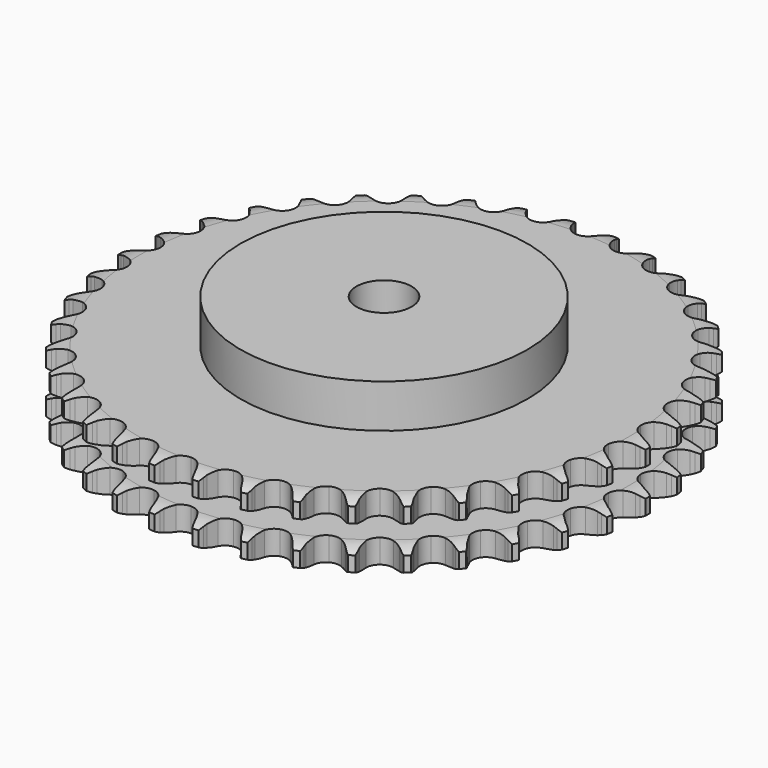
from build123d import *

# Parameters (mm, degrees)
PAD_DEPTH         = 30.3
SKETCH001_R       = 65
PAD001_DEPTH      = 50
SKETCH002_R       = 12.5
POCKET_DEPTH      = 0.001
POCKET_DEPTH_BACK = 50.001


with BuildPart() as part:
    # Sprocket → Pad (new body)
    with BuildSketch(Plane.XY):
        with BuildLine():
            ThreePointArc((-10.025052, 120.984389), (-8.623373, 119.280905), (-7.638429, 117.306964))
            Line((-7.638429, 117.306964), (-7.049797, 115.69432))
            ThreePointArc((-7.049797, 115.69432), (-6.119505, 113.622801), (-4.901153, 111.706488))
            ThreePointArc((-4.901153, 111.706488), (-2.743319, 109.891625), (0, 109.240337))
            ThreePointArc((0, 109.240337), (2.743319, 109.891625), (4.901153, 111.706488))
            ThreePointArc((4.901153, 111.706488), (6.119505, 113.622801), (7.049797, 115.69432))
            Line((7.049797, 115.69432), (7.638429, 117.306964))
            ThreePointArc((7.638429, 117.306964), (8.623373, 119.280905), (10.025052, 120.984389))
            ThreePointArc((10.025052, 120.984389), (11.127231, 119.07343), (11.773841, 116.964294))
            Line((11.773841, 116.964294), (12.089013, 115.276759))
            ThreePointArc((12.089013, 115.276759), (12.665656, 113.080371), (13.551976, 110.989661))
            ThreePointArc((13.551976, 110.989661), (15.381663, 108.844382), (17.980369, 107.750441))
            ThreePointArc((17.980369, 107.750441), (20.793471, 107.941311), (23.220591, 109.376254))
            Line((23.220591, 109.376254), (25.996306, 112.956042))
            ThreePointArc((25.996306, 112.956042), (26.398969, 113.714453), (26.842342, 114.449806))
            ThreePointArc((26.842342, 114.449806), (28.138753, 116.234709), (29.801699, 117.68425))
            ThreePointArc((29.801699, 117.68425), (30.574312, 115.617942), (30.864951, 113.431143))
            Line((30.864951, 113.431143), (30.898065, 111.714748))
            ThreePointArc((30.898065, 111.714748), (31.10533, 109.453404), (31.635443, 107.245324))
            ThreePointArc((31.635443, 107.245324), (33.087074, 104.828148), (35.47028, 103.321394))
            ThreePointArc((35.47028, 103.321394), (38.276431, 103.046639), (40.906632, 104.062521))
            Line((40.906632, 104.062521), (44.233704, 107.136618))
            ThreePointArc((44.233704, 107.136618), (44.755705, 107.818408), (45.314067, 108.470755))
            ThreePointArc((45.314067, 108.470755), (46.886581, 110.017932), (48.765434, 111.173992))
            ThreePointArc((48.765434, 111.173992), (49.187406, 109.008697), (49.114146, 106.803886))
            Line((49.114146, 106.803886), (48.864299, 105.10545))
            ThreePointArc((48.864299, 105.10545), (48.696532, 102.840833), (48.855977, 100.575615))
            ThreePointArc((48.855977, 100.575615), (49.889955, 97.952475), (51.992654, 96.074009))
            ThreePointArc((51.992654, 96.074009), (54.715309, 95.341124), (57.476847, 95.910234))
            Line((57.476847, 95.910234), (61.264521, 98.394786))
            ThreePointArc((61.264521, 98.394786), (61.891622, 98.981359), (62.549741, 99.532905))
            ThreePointArc((62.549741, 99.532905), (64.355466, 100.800154), (66.398975, 101.631197))
            ThreePointArc((66.398975, 101.631197), (66.458796, 99.42598), (66.023635, 97.263297))
            Line((66.023635, 97.263297), (65.497642, 95.629149))
            ThreePointArc((65.497642, 95.629149), (64.95942, 93.423033), (64.743847, 91.162465))
            ThreePointArc((64.743847, 91.162465), (65.331969, 88.404914), (67.096804, 86.205975))
            ThreePointArc((67.096804, 86.205975), (69.661697, 85.034951), (72.479243, 85.141765))
            Line((72.479243, 85.141765), (76.624202, 86.969))
            ThreePointArc((76.624202, 86.969), (77.339297, 87.444356), (78.079222, 87.880057))
            ThreePointArc((78.079222, 87.880057), (80.068901, 88.832809), (82.221324, 89.316168))
            ThreePointArc((82.221324, 89.316168), (81.917363, 87.131181), (81.132171, 85.06962))
            Line((81.132171, 85.06962), (80.34438, 83.544335))
            ThreePointArc((80.34438, 83.544335), (79.450383, 81.456895), (78.865674, 79.262641))
            ThreePointArc((78.865674, 79.262641), (78.991897, 76.445898), (80.370728, 73.986467))
            ThreePointArc((80.370728, 73.986467), (82.707895, 72.409247), (85.504595, 72.050851))
            Line((85.504595, 72.050851), (89.893775, 73.170927))
            ThreePointArc((89.893775, 73.170927), (90.677358, 73.522099), (91.478905, 73.83007))
            ThreePointArc((91.478905, 73.83007), (93.598266, 74.442338), (95.800891, 74.564826))
            ThreePointArc((95.800891, 74.564826), (95.141438, 72.45967), (94.027633, 70.555464))
            Line((94.027633, 70.555464), (92.999533, 69.180649))
            ThreePointArc((92.999533, 69.180649), (91.774148, 67.268826), (90.836251, 65.200739))
            ThreePointArc((90.836251, 65.200739), (90.497131, 62.401637), (91.452348, 59.748801))
            ThreePointArc((91.452348, 59.748801), (93.498038, 57.808407), (96.197604, 56.994577))
            Line((96.197604, 56.994577), (100.71128, 57.376942))
            ThreePointArc((100.71128, 57.376942), (101.541977, 57.594351), (102.383282, 57.766191))
            ThreePointArc((102.383282, 57.766191), (104.574513, 58.021273), (106.767258, 57.779551))
            ThreePointArc((106.767258, 57.779551), (105.770302, 55.811649), (104.358266, 54.11674))
            Line((104.358266, 54.11674), (103.117902, 52.929895))
            ThreePointArc((103.117902, 52.929895), (101.594553, 51.245839), (100.329052, 49.36033))
            ThreePointArc((100.329052, 49.36033), (99.53384, 46.655221), (100.039387, 43.881344))
            ThreePointArc((100.039387, 43.881344), (101.737798, 41.630704), (104.266593, 40.383641))
            Line((104.266593, 40.383641), (108.781644, 40.017863))
            ThreePointArc((108.781644, 40.017863), (109.636795, 40.095579), (110.49491, 40.126601))
            ThreePointArc((110.49491, 40.126601), (112.698241, 40.017539), (114.821294, 39.4182))
            ThreePointArc((114.821294, 39.4182), (113.514029, 37.641231), (111.842278, 36.201852))
            Line((111.842278, 36.201852), (110.423482, 35.235351))
            ThreePointArc((110.423482, 35.235351), (108.643724, 33.824998), (107.085138, 32.1735))
            ThreePointArc((107.085138, 32.1735), (105.855525, 29.636173), (105.897612, 26.816917))
            ThreePointArc((105.897612, 26.816917), (107.202415, 24.317425), (109.491461, 22.671143))
            Line((109.491461, 22.671143), (113.884728, 21.567202))
            ThreePointArc((113.884728, 21.567202), (114.741008, 21.503104), (115.592525, 21.392462))
            ThreePointArc((115.592525, 21.392462), (117.747854, 20.922231), (119.743303, 19.981623))
            ThreePointArc((119.743303, 19.981623), (118.161388, 18.444059), (116.275525, 17.299472))
            Line((116.275525, 17.299472), (114.716998, 16.579679))
            ThreePointArc((114.716998, 16.579679), (112.729377, 15.4815), (110.92022, 14.109061))
            ThreePointArc((110.92022, 14.109061), (109.289748, 11.808728), (108.867226, 9.020996))
            ThreePointArc((108.867226, 9.020996), (109.742831, 6.340829), (111.729688, 4.340236))
            Line((111.729688, 4.340236), (115.881333, 2.528243))
            ThreePointArc((115.881333, 2.528243), (116.715384, 2.32408), (117.537077, 2.074792))
            ThreePointArc((117.537077, 2.074792), (119.585613, 1.25622), (121.399028, 0))
            ThreePointArc((121.399028, 0), (119.585613, -1.25622), (117.537077, -2.074792))
            Line((117.537077, -2.074792), (115.881333, -2.528243))
            ThreePointArc((115.881333, -2.528243), (113.740066, -3.284293), (111.729688, -4.340236))
            ThreePointArc((111.729688, -4.340236), (109.742831, -6.340829), (108.867226, -9.020996))
            ThreePointArc((108.867226, -9.020996), (109.289748, -11.808728), (110.92022, -14.109061))
            Line((110.92022, -14.109061), (114.716998, -16.579679))
            ThreePointArc((114.716998, -16.579679), (115.50607, -16.918338), (116.275525, -17.299472))
            ThreePointArc((116.275525, -17.299472), (118.161388, -18.444059), (119.743303, -19.981623))
            ThreePointArc((119.743303, -19.981623), (117.747854, -20.922231), (115.592525, -21.392462))
            Line((115.592525, -21.392462), (113.884728, -21.567202))
            ThreePointArc((113.884728, -21.567202), (111.648223, -21.960499), (109.491461, -22.671143))
            ThreePointArc((109.491461, -22.671143), (107.202415, -24.317425), (105.897612, -26.816917))
            ThreePointArc((105.897612, -26.816917), (105.855525, -29.636173), (107.085138, -32.1735))
            Line((107.085138, -32.1735), (110.423482, -35.235351))
            ThreePointArc((110.423482, -35.235351), (111.146051, -35.699268), (111.842278, -36.201852))
            ThreePointArc((111.842278, -36.201852), (113.514029, -37.641231), (114.821294, -39.4182))
            ThreePointArc((114.821294, -39.4182), (112.698241, -40.017539), (110.49491, -40.126601))
            Line((110.49491, -40.126601), (108.781644, -40.017863))
            ThreePointArc((108.781644, -40.017863), (106.510907, -40.03768), (104.266593, -40.383641))
            ThreePointArc((104.266593, -40.383641), (101.737798, -41.630704), (100.039387, -43.881344))
            ThreePointArc((100.039387, -43.881344), (99.53384, -46.655221), (100.329052, -49.36033))
            Line((100.329052, -49.36033), (103.117902, -52.929895))
            ThreePointArc((103.117902, -52.929895), (103.754257, -53.506415), (104.358266, -54.11674))
            ThreePointArc((104.358266, -54.11674), (105.770302, -55.811649), (106.767258, -57.779551))
            ThreePointArc((106.767258, -57.779551), (104.574513, -58.021273), (102.383282, -57.766191))
            Line((102.383282, -57.766191), (100.71128, -57.376942))
            ThreePointArc((100.71128, -57.376942), (98.468252, -57.022737), (96.197604, -56.994577))
            ThreePointArc((96.197604, -56.994577), (93.498038, -57.808407), (91.452348, -59.748801))
            ThreePointArc((91.452348, -59.748801), (90.497131, -62.401637), (90.836251, -65.200739))
            Line((90.836251, -65.200739), (92.999533, -69.180649))
            ThreePointArc((92.999533, -69.180649), (93.532318, -69.854047), (94.027633, -70.555464))
            ThreePointArc((94.027633, -70.555464), (95.141438, -72.45967), (95.800891, -74.564826))
            ThreePointArc((95.800891, -74.564826), (93.598266, -74.442338), (91.478905, -73.83007))
            Line((91.478905, -73.83007), (89.893775, -73.170927))
            ThreePointArc((89.893775, -73.170927), (87.739639, -72.452363), (85.504595, -72.050851))
            ThreePointArc((85.504595, -72.050851), (82.707895, -72.409247), (80.370728, -73.986467))
            ThreePointArc((80.370728, -73.986467), (78.991897, -76.445898), (78.865674, -79.262641))
            Line((78.865674, -79.262641), (80.34438, -83.544335))
            ThreePointArc((80.34438, -83.544335), (80.75906, -84.296242), (81.132171, -85.06962))
            ThreePointArc((81.132171, -85.06962), (81.917363, -87.131181), (82.221324, -89.316168))
            ThreePointArc((82.221324, -89.316168), (80.068901, -88.832809), (78.079222, -87.880057))
            Line((78.079222, -87.880057), (76.624202, -86.969))
            ThreePointArc((76.624202, -86.969), (74.617718, -85.905677), (72.479243, -85.141765))
            ThreePointArc((72.479243, -85.141765), (69.661697, -85.034951), (67.096804, -86.205975))
            ThreePointArc((67.096804, -86.205975), (65.331969, -88.404914), (64.743847, -91.162465))
            Line((64.743847, -91.162465), (65.497642, -95.629149))
            ThreePointArc((65.497642, -95.629149), (65.782907, -96.439056), (66.023635, -97.263297))
            ThreePointArc((66.023635, -97.263297), (66.458796, -99.42598), (66.398975, -101.631197))
            ThreePointArc((66.398975, -101.631197), (64.355466, -100.800154), (62.549741, -99.532905))
            Line((62.549741, -99.532905), (61.264521, -98.394786))
            ThreePointArc((61.264521, -98.394786), (59.46042, -97.015708), (57.476847, -95.910234))
            ThreePointArc((57.476847, -95.910234), (54.715309, -95.341124), (51.992654, -96.074009))
            ThreePointArc((51.992654, -96.074009), (49.889955, -97.952475), (48.855977, -100.575615))
            Line((48.855977, -100.575615), (48.864299, -105.10545))
            ThreePointArc((48.864299, -105.10545), (49.012367, -105.951263), (49.114146, -106.803886))
            ThreePointArc((49.114146, -106.803886), (49.187406, -109.008697), (48.765434, -111.173992))
            ThreePointArc((48.765434, -111.173992), (46.886581, -110.017932), (45.314067, -108.470755))
            Line((45.314067, -108.470755), (44.233704, -107.136618))
            ThreePointArc((44.233704, -107.136618), (42.681196, -105.479404), (40.906632, -104.062521))
            ThreePointArc((40.906632, -104.062521), (38.276431, -103.046639), (35.47028, -103.321394))
            ThreePointArc((35.47028, -103.321394), (33.087074, -104.828148), (31.635443, -107.245324))
            Line((31.635443, -107.245324), (30.898065, -111.714748))
            ThreePointArc((30.898065, -111.714748), (30.904897, -112.573397), (30.864951, -113.431143))
            ThreePointArc((30.864951, -113.431143), (30.574312, -115.617942), (29.801699, -117.68425))
            ThreePointArc((29.801699, -117.68425), (28.138753, -116.234709), (26.842342, -114.449806))
            Line((26.842342, -114.449806), (25.996306, -112.956042))
            ThreePointArc((25.996306, -112.956042), (24.737741, -111.065897), (23.220591, -109.376254))
            ThreePointArc((23.220591, -109.376254), (20.793471, -107.941311), (17.980369, -107.750441))
            ThreePointArc((17.980369, -107.750441), (15.381663, -108.844382), (13.551976, -110.989661))
            Line((13.551976, -110.989661), (12.089013, -115.276759))
            ThreePointArc((12.089013, -115.276759), (11.954423, -116.124821), (11.773841, -116.964294))
            ThreePointArc((11.773841, -116.964294), (11.127231, -119.07343), (10.025052, -120.984389))
            ThreePointArc((10.025052, -120.984389), (8.623373, -119.280905), (7.638429, -117.306964))
            Line((7.638429, -117.306964), (7.049797, -115.69432))
            ThreePointArc((7.049797, -115.69432), (6.119505, -113.622801), (4.901153, -111.706488))
            ThreePointArc((4.901153, -111.706488), (2.743319, -109.891625), (0, -109.240337))
            ThreePointArc((0, -109.240337), (-2.743319, -109.891625), (-4.901153, -111.706488))
            Line((-4.901153, -111.706488), (-7.049797, -115.69432))
            ThreePointArc((-7.049797, -115.69432), (-7.322138, -116.508663), (-7.638429, -117.306964))
            ThreePointArc((-7.638429, -117.306964), (-8.623373, -119.280905), (-10.025052, -120.984389))
            ThreePointArc((-10.025052, -120.984389), (-11.127231, -119.07343), (-11.773841, -116.964294))
            Line((-11.773841, -116.964294), (-12.089013, -115.276759))
            ThreePointArc((-12.089013, -115.276759), (-12.665656, -113.080371), (-13.551976, -110.989661))
            ThreePointArc((-13.551976, -110.989661), (-15.381663, -108.844382), (-17.980369, -107.750441))
            ThreePointArc((-17.980369, -107.750441), (-20.793471, -107.941311), (-23.220591, -109.376254))
            Line((-23.220591, -109.376254), (-25.996306, -112.956042))
            ThreePointArc((-25.996306, -112.956042), (-26.398969, -113.714453), (-26.842342, -114.449806))
            ThreePointArc((-26.842342, -114.449806), (-28.138753, -116.234709), (-29.801699, -117.68425))
            ThreePointArc((-29.801699, -117.68425), (-30.574312, -115.617942), (-30.864951, -113.431143))
            Line((-30.864951, -113.431143), (-30.898065, -111.714748))
            ThreePointArc((-30.898065, -111.714748), (-31.10533, -109.453404), (-31.635443, -107.245324))
            ThreePointArc((-31.635443, -107.245324), (-33.087074, -104.828148), (-35.47028, -103.321394))
            ThreePointArc((-35.47028, -103.321394), (-38.276431, -103.046639), (-40.906632, -104.062521))
            Line((-40.906632, -104.062521), (-44.233704, -107.136618))
            ThreePointArc((-44.233704, -107.136618), (-44.755705, -107.818408), (-45.314067, -108.470755))
            ThreePointArc((-45.314067, -108.470755), (-46.886581, -110.017932), (-48.765434, -111.173992))
            ThreePointArc((-48.765434, -111.173992), (-49.187406, -109.008697), (-49.114146, -106.803886))
            Line((-49.114146, -106.803886), (-48.864299, -105.10545))
            ThreePointArc((-48.864299, -105.10545), (-48.696532, -102.840833), (-48.855977, -100.575615))
            ThreePointArc((-48.855977, -100.575615), (-49.889955, -97.952475), (-51.992654, -96.074009))
            ThreePointArc((-51.992654, -96.074009), (-54.715309, -95.341124), (-57.476847, -95.910234))
            Line((-57.476847, -95.910234), (-61.264521, -98.394786))
            ThreePointArc((-61.264521, -98.394786), (-61.891622, -98.981359), (-62.549741, -99.532905))
            ThreePointArc((-62.549741, -99.532905), (-64.355466, -100.800154), (-66.398975, -101.631197))
            ThreePointArc((-66.398975, -101.631197), (-66.458796, -99.42598), (-66.023635, -97.263297))
            Line((-66.023635, -97.263297), (-65.497642, -95.629149))
            ThreePointArc((-65.497642, -95.629149), (-64.95942, -93.423033), (-64.743847, -91.162465))
            ThreePointArc((-64.743847, -91.162465), (-65.331969, -88.404914), (-67.096804, -86.205975))
            ThreePointArc((-67.096804, -86.205975), (-69.661697, -85.034951), (-72.479243, -85.141765))
            Line((-72.479243, -85.141765), (-76.624202, -86.969))
            ThreePointArc((-76.624202, -86.969), (-77.339297, -87.444356), (-78.079222, -87.880057))
            ThreePointArc((-78.079222, -87.880057), (-80.068901, -88.832809), (-82.221324, -89.316168))
            ThreePointArc((-82.221324, -89.316168), (-81.917363, -87.131181), (-81.132171, -85.06962))
            Line((-81.132171, -85.06962), (-80.34438, -83.544335))
            ThreePointArc((-80.34438, -83.544335), (-79.450383, -81.456895), (-78.865674, -79.262641))
            ThreePointArc((-78.865674, -79.262641), (-78.991897, -76.445898), (-80.370728, -73.986467))
            ThreePointArc((-80.370728, -73.986467), (-82.707895, -72.409247), (-85.504595, -72.050851))
            Line((-85.504595, -72.050851), (-89.893775, -73.170927))
            ThreePointArc((-89.893775, -73.170927), (-90.677358, -73.522099), (-91.478905, -73.83007))
            ThreePointArc((-91.478905, -73.83007), (-93.598266, -74.442338), (-95.800891, -74.564826))
            ThreePointArc((-95.800891, -74.564826), (-95.141438, -72.45967), (-94.027633, -70.555464))
            Line((-94.027633, -70.555464), (-92.999533, -69.180649))
            ThreePointArc((-92.999533, -69.180649), (-91.774148, -67.268826), (-90.836251, -65.200739))
            ThreePointArc((-90.836251, -65.200739), (-90.497131, -62.401637), (-91.452348, -59.748801))
            ThreePointArc((-91.452348, -59.748801), (-93.498038, -57.808407), (-96.197604, -56.994577))
            Line((-96.197604, -56.994577), (-100.71128, -57.376942))
            ThreePointArc((-100.71128, -57.376942), (-101.541977, -57.594351), (-102.383282, -57.766191))
            ThreePointArc((-102.383282, -57.766191), (-104.574513, -58.021273), (-106.767258, -57.779551))
            ThreePointArc((-106.767258, -57.779551), (-105.770302, -55.811649), (-104.358266, -54.11674))
            Line((-104.358266, -54.11674), (-103.117902, -52.929895))
            ThreePointArc((-103.117902, -52.929895), (-101.594553, -51.245839), (-100.329052, -49.36033))
            ThreePointArc((-100.329052, -49.36033), (-99.53384, -46.655221), (-100.039387, -43.881344))
            ThreePointArc((-100.039387, -43.881344), (-101.737798, -41.630704), (-104.266593, -40.383641))
            Line((-104.266593, -40.383641), (-108.781644, -40.017863))
            ThreePointArc((-108.781644, -40.017863), (-109.636795, -40.095579), (-110.49491, -40.126601))
            ThreePointArc((-110.49491, -40.126601), (-112.698241, -40.017539), (-114.821294, -39.4182))
            ThreePointArc((-114.821294, -39.4182), (-113.514029, -37.641231), (-111.842278, -36.201852))
            Line((-111.842278, -36.201852), (-110.423482, -35.235351))
            ThreePointArc((-110.423482, -35.235351), (-108.643724, -33.824998), (-107.085138, -32.1735))
            ThreePointArc((-107.085138, -32.1735), (-105.855525, -29.636173), (-105.897612, -26.816917))
            ThreePointArc((-105.897612, -26.816917), (-107.202415, -24.317425), (-109.491461, -22.671143))
            Line((-109.491461, -22.671143), (-113.884728, -21.567202))
            ThreePointArc((-113.884728, -21.567202), (-114.741008, -21.503104), (-115.592525, -21.392462))
            ThreePointArc((-115.592525, -21.392462), (-117.747854, -20.922231), (-119.743303, -19.981623))
            ThreePointArc((-119.743303, -19.981623), (-118.161388, -18.444059), (-116.275525, -17.299472))
            Line((-116.275525, -17.299472), (-114.716998, -16.579679))
            ThreePointArc((-114.716998, -16.579679), (-112.729377, -15.4815), (-110.92022, -14.109061))
            ThreePointArc((-110.92022, -14.109061), (-109.289748, -11.808728), (-108.867226, -9.020996))
            ThreePointArc((-108.867226, -9.020996), (-109.742831, -6.340829), (-111.729688, -4.340236))
            Line((-111.729688, -4.340236), (-115.881333, -2.528243))
            ThreePointArc((-115.881333, -2.528243), (-116.715384, -2.32408), (-117.537077, -2.074792))
            ThreePointArc((-117.537077, -2.074792), (-119.585613, -1.25622), (-121.399028, 0))
            ThreePointArc((-121.399028, 0), (-119.585613, 1.25622), (-117.537077, 2.074792))
            Line((-117.537077, 2.074792), (-115.881333, 2.528243))
            ThreePointArc((-115.881333, 2.528243), (-113.740066, 3.284293), (-111.729688, 4.340236))
            ThreePointArc((-111.729688, 4.340236), (-109.742831, 6.340829), (-108.867226, 9.020996))
            ThreePointArc((-108.867226, 9.020996), (-109.289748, 11.808728), (-110.92022, 14.109061))
            Line((-110.92022, 14.109061), (-114.716998, 16.579679))
            ThreePointArc((-114.716998, 16.579679), (-115.50607, 16.918338), (-116.275525, 17.299472))
            ThreePointArc((-116.275525, 17.299472), (-118.161388, 18.444059), (-119.743303, 19.981623))
            ThreePointArc((-119.743303, 19.981623), (-117.747854, 20.922231), (-115.592525, 21.392462))
            Line((-115.592525, 21.392462), (-113.884728, 21.567202))
            ThreePointArc((-113.884728, 21.567202), (-111.648223, 21.960499), (-109.491461, 22.671143))
            ThreePointArc((-109.491461, 22.671143), (-107.202415, 24.317425), (-105.897612, 26.816917))
            ThreePointArc((-105.897612, 26.816917), (-105.855525, 29.636173), (-107.085138, 32.1735))
            Line((-107.085138, 32.1735), (-110.423482, 35.235351))
            ThreePointArc((-110.423482, 35.235351), (-111.146051, 35.699268), (-111.842278, 36.201852))
            ThreePointArc((-111.842278, 36.201852), (-113.514029, 37.641231), (-114.821294, 39.4182))
            ThreePointArc((-114.821294, 39.4182), (-112.698241, 40.017539), (-110.49491, 40.126601))
            Line((-110.49491, 40.126601), (-108.781644, 40.017863))
            ThreePointArc((-108.781644, 40.017863), (-106.510907, 40.03768), (-104.266593, 40.383641))
            ThreePointArc((-104.266593, 40.383641), (-101.737798, 41.630704), (-100.039387, 43.881344))
            ThreePointArc((-100.039387, 43.881344), (-99.53384, 46.655221), (-100.329052, 49.36033))
            Line((-100.329052, 49.36033), (-103.117902, 52.929895))
            ThreePointArc((-103.117902, 52.929895), (-103.754257, 53.506415), (-104.358266, 54.11674))
            ThreePointArc((-104.358266, 54.11674), (-105.770302, 55.811649), (-106.767258, 57.779551))
            ThreePointArc((-106.767258, 57.779551), (-104.574513, 58.021273), (-102.383282, 57.766191))
            Line((-102.383282, 57.766191), (-100.71128, 57.376942))
            ThreePointArc((-100.71128, 57.376942), (-98.468252, 57.022737), (-96.197604, 56.994577))
            ThreePointArc((-96.197604, 56.994577), (-93.498038, 57.808407), (-91.452348, 59.748801))
            ThreePointArc((-91.452348, 59.748801), (-90.497131, 62.401637), (-90.836251, 65.200739))
            Line((-90.836251, 65.200739), (-92.999533, 69.180649))
            ThreePointArc((-92.999533, 69.180649), (-93.532318, 69.854047), (-94.027633, 70.555464))
            ThreePointArc((-94.027633, 70.555464), (-95.141438, 72.45967), (-95.800891, 74.564826))
            ThreePointArc((-95.800891, 74.564826), (-93.598266, 74.442338), (-91.478905, 73.83007))
            Line((-91.478905, 73.83007), (-89.893775, 73.170927))
            ThreePointArc((-89.893775, 73.170927), (-87.739639, 72.452363), (-85.504595, 72.050851))
            ThreePointArc((-85.504595, 72.050851), (-82.707895, 72.409247), (-80.370728, 73.986467))
            ThreePointArc((-80.370728, 73.986467), (-78.991897, 76.445898), (-78.865674, 79.262641))
            Line((-78.865674, 79.262641), (-80.34438, 83.544335))
            ThreePointArc((-80.34438, 83.544335), (-80.75906, 84.296242), (-81.132171, 85.06962))
            ThreePointArc((-81.132171, 85.06962), (-81.917363, 87.131181), (-82.221324, 89.316168))
            ThreePointArc((-82.221324, 89.316168), (-80.068901, 88.832809), (-78.079222, 87.880057))
            Line((-78.079222, 87.880057), (-76.624202, 86.969))
            ThreePointArc((-76.624202, 86.969), (-74.617718, 85.905677), (-72.479243, 85.141765))
            ThreePointArc((-72.479243, 85.141765), (-69.661697, 85.034951), (-67.096804, 86.205975))
            ThreePointArc((-67.096804, 86.205975), (-65.331969, 88.404914), (-64.743847, 91.162465))
            Line((-64.743847, 91.162465), (-65.497642, 95.629149))
            ThreePointArc((-65.497642, 95.629149), (-65.782907, 96.439056), (-66.023635, 97.263297))
            ThreePointArc((-66.023635, 97.263297), (-66.458796, 99.42598), (-66.398975, 101.631197))
            ThreePointArc((-66.398975, 101.631197), (-64.355466, 100.800154), (-62.549741, 99.532905))
            Line((-62.549741, 99.532905), (-61.264521, 98.394786))
            ThreePointArc((-61.264521, 98.394786), (-59.46042, 97.015708), (-57.476847, 95.910234))
            ThreePointArc((-57.476847, 95.910234), (-54.715309, 95.341124), (-51.992654, 96.074009))
            ThreePointArc((-51.992654, 96.074009), (-49.889955, 97.952475), (-48.855977, 100.575615))
            Line((-48.855977, 100.575615), (-48.864299, 105.10545))
            ThreePointArc((-48.864299, 105.10545), (-49.012367, 105.951263), (-49.114146, 106.803886))
            ThreePointArc((-49.114146, 106.803886), (-49.187406, 109.008697), (-48.765434, 111.173992))
            ThreePointArc((-48.765434, 111.173992), (-46.886581, 110.017932), (-45.314067, 108.470755))
            Line((-45.314067, 108.470755), (-44.233704, 107.136618))
            ThreePointArc((-44.233704, 107.136618), (-42.681196, 105.479404), (-40.906632, 104.062521))
            ThreePointArc((-40.906632, 104.062521), (-38.276431, 103.046639), (-35.47028, 103.321394))
            ThreePointArc((-35.47028, 103.321394), (-33.087074, 104.828148), (-31.635443, 107.245324))
            Line((-31.635443, 107.245324), (-30.898065, 111.714748))
            ThreePointArc((-30.898065, 111.714748), (-30.904897, 112.573397), (-30.864951, 113.431143))
            ThreePointArc((-30.864951, 113.431143), (-30.574312, 115.617942), (-29.801699, 117.68425))
            ThreePointArc((-29.801699, 117.68425), (-28.138753, 116.234709), (-26.842342, 114.449806))
            Line((-26.842342, 114.449806), (-25.996306, 112.956042))
            ThreePointArc((-25.996306, 112.956042), (-24.737741, 111.065897), (-23.220591, 109.376254))
            ThreePointArc((-23.220591, 109.376254), (-20.793471, 107.941311), (-17.980369, 107.750441))
            ThreePointArc((-17.980369, 107.750441), (-15.381663, 108.844382), (-13.551976, 110.989661))
            Line((-13.551976, 110.989661), (-12.089013, 115.276759))
            ThreePointArc((-12.089013, 115.276759), (-11.954423, 116.124821), (-11.773841, 116.964294))
            ThreePointArc((-11.773841, 116.964294), (-11.127231, 119.07343), (-10.025052, 120.984389))
        make_face()
    extrude(amount=PAD_DEPTH)

    # Sketch → Groove (revolve, cut)
    with BuildSketch(Plane.XZ):
        with BuildLine():
            ThreePointArc((111.014719, 0), (115.373618, 0.506758), (119.5, 2))
            Line((119.5, 2), (119.5, 8.8))
            ThreePointArc((119.5, 8.8), (115.373618, 10.293242), (111.014719, 10.8))
            Line((65, 10.8), (111.014719, 10.8))
            Line((65, 19.5), (65, 10.8))
            Line((111.014719, 19.5), (65, 19.5))
            ThreePointArc((111.014719, 19.5), (115.373618, 20.006758), (119.5, 21.5))
            Line((119.5, 21.5), (119.5, 28.3))
            ThreePointArc((119.5, 28.3), (115.373618, 29.793242), (111.014719, 30.3))
            Line((111.014719, 30.3), (129.5, 30.3))
            Line((129.5, 30.3), (129.5, 0))
            Line((111.014719, 0), (129.5, 0))
        make_face()
    revolve(axis=Axis((0, 0, 0), (0, 0, 1)), mode=Mode.SUBTRACT)

    # Sketch001 → Pad001 (join)
    with BuildSketch(Plane.XY):
        Circle(SKETCH001_R)
    extrude(amount=PAD001_DEPTH)

    # Sketch002 → Pocket (cut, two sides)
    with BuildSketch(Plane.XY) as pocket_sk:
        Circle(SKETCH002_R)
    extrude(amount=-POCKET_DEPTH, mode=Mode.SUBTRACT)
    extrude(pocket_sk.sketch, amount=POCKET_DEPTH_BACK, mode=Mode.SUBTRACT)


solid = part.part
